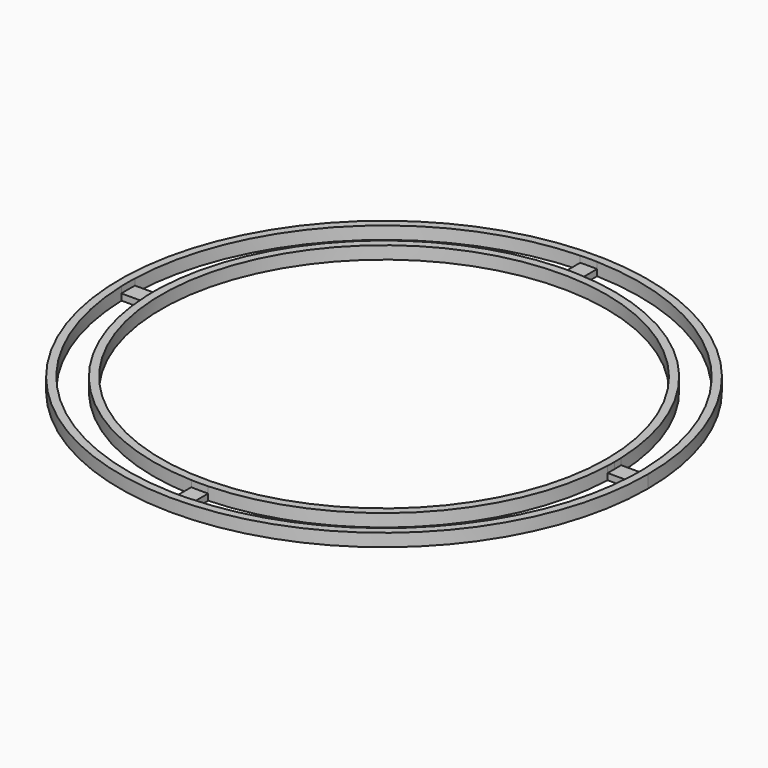
from build123d import *

# Parameters (mm, degrees)
F1_DEPTH = 2
F0_R     = 35
F0_W     = 2.6646726765
F0_H     = 1.0178747537
F2_DEPTH = 1


with BuildPart() as f1:
    # F0 (on Top) → F1 (new body)
    with BuildSketch(Plane.XY):
        with BuildLine():
            ThreePointArc((1.6134383026, 41.468624487), (-29.9099288662, -28.7688400048), (41.5, 0))
            ThreePointArc((41.5, 0), (29.9099288662, 28.7688400048), (1.6134383026, 41.468624487))
        make_face()
        with BuildLine():
            ThreePointArc((1.3323363382, 40.2279427747), (28.4610479428, 28.4610479428), (40.2279427747, 1.3323363382))
            Line((40.2279427747, 1.3323363382), (40.8782474697, 1.3323363382))
            Line((40.8782474697, 1.3323363382), (40.8782474697, -1.3323363382))
            Line((40.8782474697, -1.3323363382), (40.2279427747, -1.3323363382))
            ThreePointArc((40.2279427747, -1.3323363382), (28.4610479428, -28.4610479428), (1.3323363382, -40.2279427747))
            Line((1.3323363382, -40.2279427747), (1.3323363382, -40.8782474697))
            Line((1.3323363382, -40.8782474697), (-1.3323363382, -40.8782474697))
            Line((-1.3323363382, -40.8782474697), (-1.3323363382, -40.2279427747))
            ThreePointArc((-1.3323363382, -40.2279427747), (-28.4610479428, -28.4610479428), (-40.2279427747, -1.3323363382))
            Line((-40.2279427747, -1.3323363382), (-40.8782474697, -1.3323363382))
            Line((-40.8782474697, -1.3323363382), (-40.8782474697, 1.3323363382))
            Line((-40.8782474697, 1.3323363382), (-40.2279427747, 1.3323363382))
            ThreePointArc((-40.2279427747, 1.3323363382), (-28.4610479428, 28.4610479428), (-1.3323363382, 40.2279427747))
            Line((-1.3323363382, 40.2279427747), (-1.3323363382, 40.8782474697))
            Line((-1.3323363382, 40.8782474697), (1.3323363382, 40.8782474697))
            Line((1.3323363382, 40.8782474697), (1.3323363382, 40.2279427747))
        make_face(mode=Mode.SUBTRACT)
        with BuildLine():
            ThreePointArc((-40.2279427747, -1.3323363382), (-40.25, 0), (-40.2279427747, 1.3323363382))
            Line((-40.2279427747, 1.3323363382), (-40.8782474697, 1.3323363382))
            Line((-40.8782474697, 1.3323363382), (-40.8782474697, -1.3323363382))
            Line((-40.8782474697, -1.3323363382), (-40.2279427747, -1.3323363382))
        make_face()
        with BuildLine():
            ThreePointArc((-1.3323363382, 40.2279427747), (0, 40.25), (1.3323363382, 40.2279427747))
            Line((1.3323363382, 40.2279427747), (1.3323363382, 40.8782474697))
            Line((1.3323363382, 40.8782474697), (-1.3323363382, 40.8782474697))
            Line((-1.3323363382, 40.8782474697), (-1.3323363382, 40.2279427747))
        make_face()
        with BuildLine():
            Line((1.3323363382, -40.8782474697), (1.3323363382, -40.2279427747))
            ThreePointArc((1.3323363382, -40.2279427747), (0, -40.25), (-1.3323363382, -40.2279427747))
            Line((-1.3323363382, -40.2279427747), (-1.3323363382, -40.8782474697))
            Line((-1.3323363382, -40.8782474697), (1.3323363382, -40.8782474697))
        make_face()
        with BuildLine():
            Line((40.8782474697, 1.3323363382), (40.2279427747, 1.3323363382))
            ThreePointArc((40.2279427747, 1.3323363382), (40.2444853159, 0.6662594538), (40.25, 0))
            ThreePointArc((40.25, 0), (40.2444853159, -0.6662594538), (40.2279427747, -1.3323363382))
            Line((40.2279427747, -1.3323363382), (40.8782474697, -1.3323363382))
            Line((40.8782474697, -1.3323363382), (40.8782474697, 1.3323363382))
        make_face()
    extrude(amount=F1_DEPTH)


with BuildPart() as f1b:
    # F0 (on Top) → F1, piece 2 (new body)
    with BuildSketch(Plane.XY):
        with BuildLine():
            Line((35.2002568543, 1.3323363382), (36.2255073102, 1.3323363382))
            ThreePointArc((36.2255073102, 1.3323363382), (25.6988242062, 25.5662459978), (1.5196851084, 36.218131608))
            Line((1.5196851084, 36.218131608), (1.3323363382, 36.218131608))
            Line((1.3323363382, 36.218131608), (1.3323363382, 35.2002568543))
            Line((1.3323363382, 35.2002568543), (-1.3323363382, 35.2002568543))
            Line((-1.3323363382, 35.2002568543), (-1.3323363382, 36.218131608))
            Line((-1.3323363382, 36.218131608), (-1.5196851084, 36.218131608))
            ThreePointArc((-1.5196851084, 36.218131608), (-25.6988242062, 25.5662459978), (-36.2255073102, 1.3323363382))
            Line((-36.2255073102, 1.3323363382), (-35.2002568543, 1.3323363382))
            Line((-35.2002568543, 1.3323363382), (-35.2002568543, -1.3323363382))
            Line((-35.2002568543, -1.3323363382), (-36.2255073102, -1.3323363382))
            ThreePointArc((-36.2255073102, -1.3323363382), (-25.632620818, -25.632620818), (-1.3323363382, -36.2255073102))
            Line((-1.3323363382, -36.2255073102), (-1.3323363382, -35.2002568543))
            Line((-1.3323363382, -35.2002568543), (1.3323363382, -35.2002568543))
            Line((1.3323363382, -35.2002568543), (1.3323363382, -36.2255073102))
            ThreePointArc((1.3323363382, -36.2255073102), (25.632620818, -25.632620818), (36.2255073102, -1.3323363382))
            Line((36.2255073102, -1.3323363382), (35.2002568543, -1.3323363382))
            Line((35.2002568543, -1.3323363382), (35.2002568543, 1.3323363382))
        make_face()
        Circle(F0_R, mode=Mode.SUBTRACT)
        with BuildLine():
            ThreePointArc((36.2255073102, -1.3323363382), (36.2438763103, -0.6662807235), (36.25, 0))
            ThreePointArc((36.25, 0), (36.2438763103, 0.6662807235), (36.2255073102, 1.3323363382))
            Line((36.2255073102, 1.3323363382), (35.2002568543, 1.3323363382))
            Line((35.2002568543, 1.3323363382), (35.2002568543, -1.3323363382))
            Line((35.2002568543, -1.3323363382), (36.2255073102, -1.3323363382))
        make_face()
        with BuildLine():
            ThreePointArc((-36.2255073102, 1.3323363382), (-36.25, 0), (-36.2255073102, -1.3323363382))
            Line((-36.2255073102, -1.3323363382), (-35.2002568543, -1.3323363382))
            Line((-35.2002568543, -1.3323363382), (-35.2002568543, 1.3323363382))
            Line((-35.2002568543, 1.3323363382), (-36.2255073102, 1.3323363382))
        make_face()
        with BuildLine():
            ThreePointArc((-1.3323363382, -36.2255073102), (0, -36.25), (1.3323363382, -36.2255073102))
            Line((1.3323363382, -36.2255073102), (1.3323363382, -35.2002568543))
            Line((1.3323363382, -35.2002568543), (-1.3323363382, -35.2002568543))
            Line((-1.3323363382, -35.2002568543), (-1.3323363382, -36.2255073102))
        make_face()
        with Locations((0, 35.7091942311)):
            Rectangle(F0_W, F0_H)
        with BuildLine():
            Line((1.3323363382, 36.218131608), (1.3323363382, 36.2255073102))
            ThreePointArc((1.3323363382, 36.2255073102), (0, 36.25), (-1.3323363382, 36.2255073102))
            Line((-1.3323363382, 36.2255073102), (-1.3323363382, 36.218131608))
            Line((-1.3323363382, 36.218131608), (1.3323363382, 36.218131608))
        make_face()
        with BuildLine():
            Line((-1.3323363382, 36.218131608), (-1.3323363382, 36.2255073102))
            ThreePointArc((-1.3323363382, 36.2255073102), (-1.426015492, 36.221940586), (-1.5196851084, 36.218131608))
            Line((-1.5196851084, 36.218131608), (-1.3323363382, 36.218131608))
        make_face()
        with BuildLine():
            Line((1.3323363382, 36.218131608), (1.5196851084, 36.218131608))
            ThreePointArc((1.5196851084, 36.218131608), (1.426015492, 36.221940586), (1.3323363382, 36.2255073102))
            Line((1.3323363382, 36.2255073102), (1.3323363382, 36.218131608))
        make_face()
    extrude(amount=F1_DEPTH)


with BuildPart() as f2:
    # F0 (on Top) → F2 (new body)
    with BuildSketch(Plane.XY):
        with BuildLine():
            ThreePointArc((-1.3323363382, 36.2255073102), (0, 36.25), (1.3323363382, 36.2255073102))
            Line((1.3323363382, 36.2255073102), (1.3323363382, 40.2279427747))
            ThreePointArc((1.3323363382, 40.2279427747), (0, 40.25), (-1.3323363382, 40.2279427747))
            Line((-1.3323363382, 40.2279427747), (-1.3323363382, 36.2255073102))
        make_face()
    extrude(amount=F2_DEPTH)


with BuildPart() as f2b:
    # F0 (on Top) → F2, piece 2 (new body)
    with BuildSketch(Plane.XY):
        with BuildLine():
            ThreePointArc((36.2255073102, 1.3323363382), (36.2438763103, 0.6662807235), (36.25, 0))
            ThreePointArc((36.25, 0), (36.2438763103, -0.6662807235), (36.2255073102, -1.3323363382))
            Line((36.2255073102, -1.3323363382), (40.2279427747, -1.3323363382))
            ThreePointArc((40.2279427747, -1.3323363382), (40.2444853159, -0.6662594538), (40.25, 0))
            ThreePointArc((40.25, 0), (40.2444853159, 0.6662594538), (40.2279427747, 1.3323363382))
            Line((40.2279427747, 1.3323363382), (36.2255073102, 1.3323363382))
        make_face()
    extrude(amount=F2_DEPTH)


with BuildPart() as f2c:
    # F0 (on Top) → F2, piece 3 (new body)
    with BuildSketch(Plane.XY):
        with BuildLine():
            Line((1.3323363382, -40.2279427747), (1.3323363382, -36.2255073102))
            ThreePointArc((1.3323363382, -36.2255073102), (0, -36.25), (-1.3323363382, -36.2255073102))
            Line((-1.3323363382, -36.2255073102), (-1.3323363382, -40.2279427747))
            ThreePointArc((-1.3323363382, -40.2279427747), (0, -40.25), (1.3323363382, -40.2279427747))
        make_face()
    extrude(amount=F2_DEPTH)


with BuildPart() as f2d:
    # F0 (on Top) → F2, piece 4 (new body)
    with BuildSketch(Plane.XY):
        with BuildLine():
            Line((-40.2279427747, -1.3323363382), (-36.2255073102, -1.3323363382))
            ThreePointArc((-36.2255073102, -1.3323363382), (-36.25, 0), (-36.2255073102, 1.3323363382))
            Line((-36.2255073102, 1.3323363382), (-40.2279427747, 1.3323363382))
            ThreePointArc((-40.2279427747, 1.3323363382), (-40.25, 0), (-40.2279427747, -1.3323363382))
        make_face()
    extrude(amount=F2_DEPTH)


solid = Compound([f1.part, f1b.part, f2.part, f2b.part, f2c.part, f2d.part])
